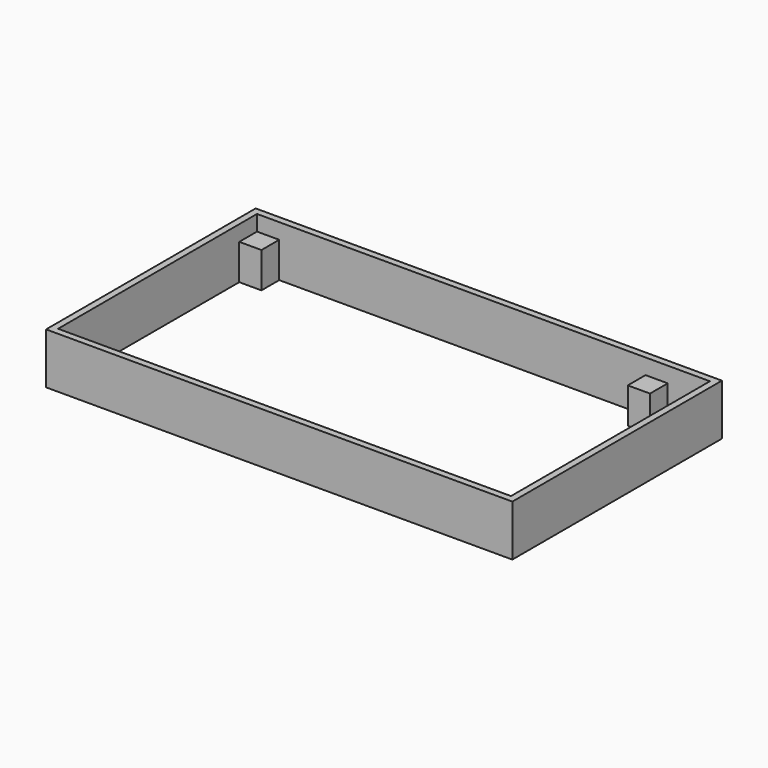
from build123d import *

# Parameters (mm, degrees)
F0_W     = 210
F0_H     = 118
F1_DEPTH = 23
F2_T     = -3
F3_W     = 10
F3_H     = 10
F4_DEPTH = 13
F5_R     = 1.75
F6_DEPTH = 25
F7_DEPTH = 25


with BuildPart() as f1:
    # F0 (on Top) → F1 (new body)
    with BuildSketch(Plane.XY):
        with Locations((105, -59)):
            Rectangle(F0_W, F0_H)
    extrude(amount=F1_DEPTH)

    # F2
    f2_openings = [f1.faces().sort_by_distance(p)[0] for p in [
        (105, -59, 23),
    ]]
    offset(amount=F2_T, openings=f2_openings)

    # F3 (on face) → F4 (join)
    with BuildSketch(Plane.XY.offset(3)):
        with Locations((8, -8)):
            Rectangle(F3_W, F3_H)
        with Locations((183, -8)):
            Rectangle(F3_W, F3_H)
        with Locations((183, -110)):
            Rectangle(F3_W, F3_H)
        with Locations((8, -110)):
            Rectangle(F3_W, F3_H)
    extrude(amount=F4_DEPTH)

    # F5 (on face) → F6 (cut)
    with BuildSketch(Plane.XY.offset(3)):
        with Locations((20, -8)):
            Circle(F5_R)
        with Locations((20, -38)):
            Circle(F5_R)
        with Locations((80, -38)):
            Circle(F5_R)
        with Locations((80, -8)):
            Circle(F5_R)
        with Locations((120, -17.5)):
            Circle(F5_R)
    extrude(amount=-F6_DEPTH, mode=Mode.SUBTRACT)

    # F7 (cut): a face of the model
    f7_faces = [f1.faces().sort_by_distance(p)[0] for p in [
        (105.2576945696, -59.0796753379, 3),
    ]]
    extrude(f7_faces, amount=-F7_DEPTH, mode=Mode.SUBTRACT)


solid = f1.part
